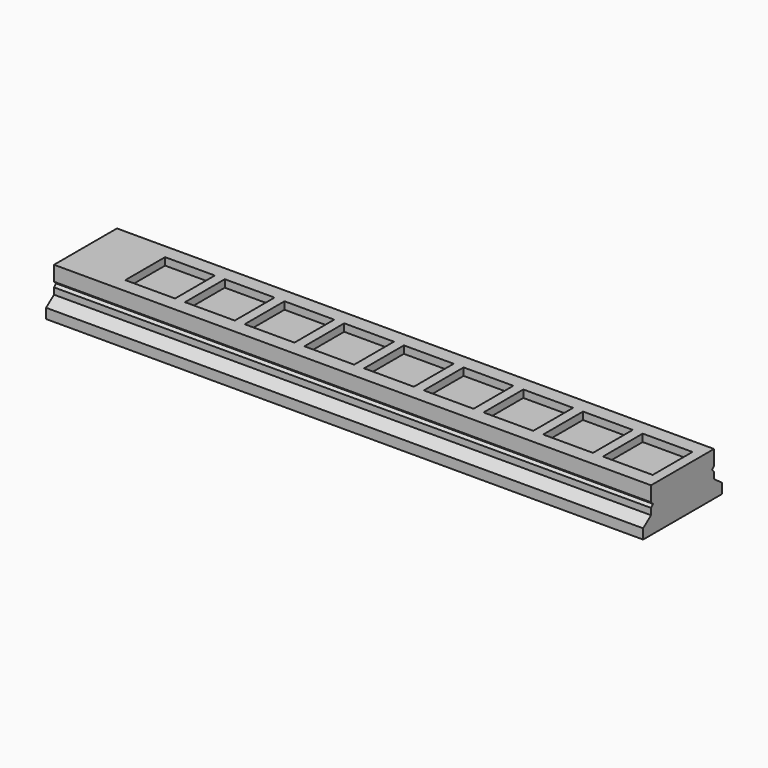
from build123d import *

# Parameters (mm, degrees)
PAD_DEPTH              = 120
SKETCH001_W            = 2.8
SKETCH001_H            = 12.5
SKETCH001_W_2          = 2.75
POCKET_DEPTH           = 1.3
POCKET001_DEPTH        = 11.75
POCKET004_DEPTH        = 14
LINEARPATTERN001_COUNT = 4
LINEARPATTERN001_PITCH = 5
LINEARPATTERN_COUNT    = 4
LINEARPATTERN_PITCH    = 5
SKETCH011_W            = 10
SKETCH011_H            = 10
POCKET005_DEPTH        = 1.5
LINEARPATTERN002_COUNT = 9
LINEARPATTERN002_PITCH = 12


with BuildPart() as part:
    # Sketch → Pad (new body)
    with BuildSketch(Plane.YZ):
        Polygon((0, 0), (0, 2), (1.990567, 3.5), (1.990567, 4.8), (2.490567, 5.3), (1.990567, 5.8), (1.990567, 8.8), (9.9, 8.8), (9.9, 0), align=None)
    extrude(amount=PAD_DEPTH)

    # Mirrored: part across face of Pad


with BuildPart() as part_1:
    add(part.part)
    add(part.part.mirror(Plane(origin=(60, 9.9, 4.4), x_dir=(-1, 0, 0), z_dir=(0, 1, 0))))

    # Sketch001 (on Face7 of Mirrored) → Pocket (cut)
    with BuildSketch(Plane.YX):
        with Locations((2.4, 18)):
            Rectangle(SKETCH001_W, SKETCH001_H)
        with Locations((7.4, 18)):
            Rectangle(SKETCH001_W, SKETCH001_H)
        with Locations((12.4, 18)):
            Rectangle(SKETCH001_W, SKETCH001_H)
        with Locations((2.375, 100)):
            Rectangle(SKETCH001_W_2, SKETCH001_H)
        with Locations((7.4, 100)):
            Rectangle(SKETCH001_W, SKETCH001_H)
        with Locations((12.4, 100)):
            Rectangle(SKETCH001_W, SKETCH001_H)
        with Locations((17.4, 18)):
            Rectangle(SKETCH001_W, SKETCH001_H)
        with Locations((17.4, 100)):
            Rectangle(SKETCH001_W, SKETCH001_H)
    extrude(amount=-POCKET_DEPTH, mode=Mode.SUBTRACT)

    # Sketch002 (on Face4 of Pocket) → Pocket001 (cut)
    with BuildSketch(Plane(origin=(0, 0, 0), x_dir=(0, 1, 0), z_dir=(-1, 0, 0))):
        Polygon((18.2, 0), (18.9, -1), (18.6, -1.3), (16.2, -1.3), (15.9, -1), (16.6, 0), align=None)
    pocket001 = extrude(amount=-POCKET001_DEPTH, mode=Mode.SUBTRACT)

    # Sketch010 (on Face14 of Pocket001) → Pocket004 (cut)
    with BuildSketch(Plane.YZ.offset(93.75)):
        Polygon((15.9, 1), (16.6, 0), (18.2, 0), (18.9, 1), (18.6, 1.3), (16.2, 1.3), align=None)
    pocket004 = extrude(amount=-POCKET004_DEPTH, mode=Mode.SUBTRACT)

    # LinearPattern001: Pocket004 ×4
    with Locations(*[(0, -i * LINEARPATTERN001_PITCH, 0) for i in range(1, LINEARPATTERN001_COUNT)]):
        add(pocket004, mode=Mode.SUBTRACT)

    # LinearPattern: Pocket001 ×4
    with Locations(*[(0, -i * LINEARPATTERN_PITCH, 0) for i in range(1, LINEARPATTERN_COUNT)]):
        add(pocket001, mode=Mode.SUBTRACT)

    # Sketch011 (on Face82 of LinearPattern) → Pocket005 (cut)
    with BuildSketch(Plane(origin=(0, 0, 8.8), x_dir=(0, -1, 0), z_dir=(0, 0, 1))):
        with Locations((-9.9, 113)):
            Rectangle(SKETCH011_W, SKETCH011_H)
    pocket005 = extrude(amount=-POCKET005_DEPTH, mode=Mode.SUBTRACT)

    # LinearPattern002: Pocket005 ×9
    with Locations(*[(-i * LINEARPATTERN002_PITCH, 0, 0) for i in range(1, LINEARPATTERN002_COUNT)]):
        add(pocket005, mode=Mode.SUBTRACT)


solid = part_1.part
